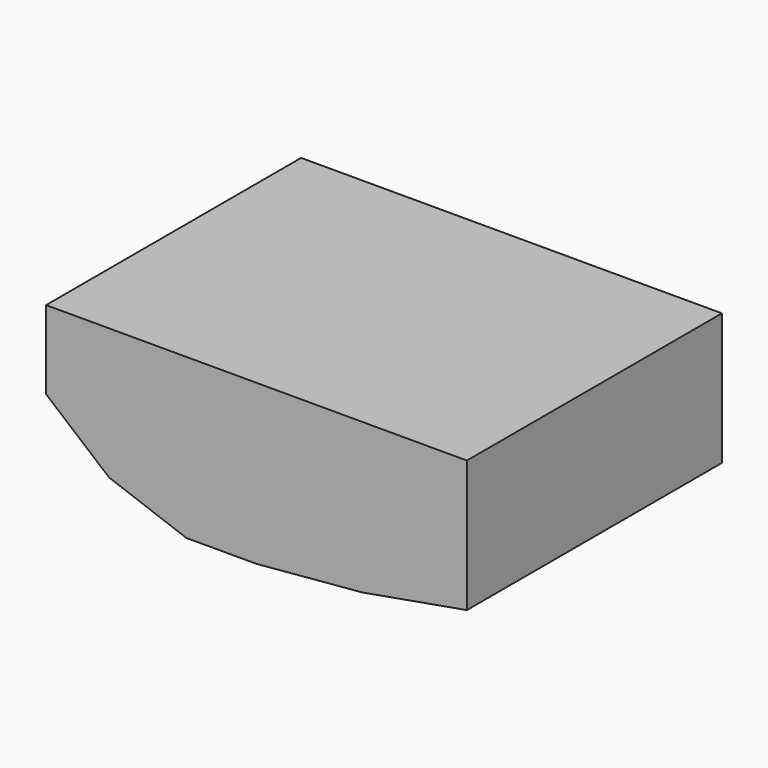
from build123d import *

# Parameters (mm, degrees)
F0_W     = 66
F0_H     = 50
F1_DEPTH = 25
F3_DEPTH = 50


with BuildPart() as f1:
    # F0 (on Top) → F1 (new body)
    with BuildSketch(Plane.XY):
        Rectangle(F0_W, F0_H)
    extrude(amount=F1_DEPTH)

    # F2 (on face) → F3 (cut)
    with BuildSketch(Plane.XZ.offset(25)):
        Polygon((-33, 0), (-11, 0), (-23.119827, 4.411256), (-33, 12.701706), align=None)
        Polygon((16.594843, 1.451861), (0, 0), (33, 0), (33, 4.344532), align=None)
    extrude(amount=-F3_DEPTH, mode=Mode.SUBTRACT)


solid = f1.part
